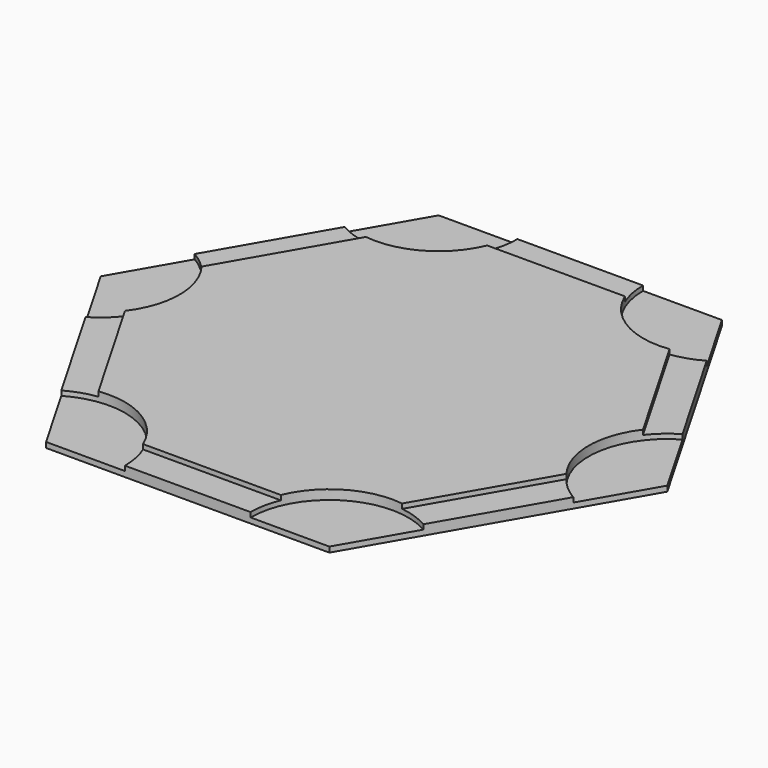
from build123d import *

# Parameters (mm, degrees)
F1_DEPTH = 1.6256
F3_DEPTH = 2.3876
F5_R     = 12.7
F6_DEPTH = 1.524


with BuildPart() as f1:
    # F0 (on Top) → F1 (new body)
    with BuildSketch(Plane.XY):
        Polygon((-22.8219, -39.52869), (22.8219, -39.52869), (45.6438, 0), (22.8219, 39.52869), (-22.8219, 39.52869), (-45.6438, 0), align=None)
    extrude(amount=F1_DEPTH)

    # F2 (on Top) → F3 (join)
    with BuildSketch(Plane.XY):
        Polygon((-20.006278, -34.65189), (20.006278, -34.65189), (40.012556, 0), (20.006278, 34.65189), (-20.006278, 34.65189), (-40.012556, 0), align=None)
    extrude(amount=F3_DEPTH)

    # F5 (on face) → F6 (cut)
    with BuildSketch(Plane.XY.offset(2.3876)):
        with Locations((22.8219, -39.52869)):
            Circle(F5_R)
        with Locations((45.6438, 0)):
            Circle(F5_R)
        with Locations((22.8219, 39.52869)):
            Circle(F5_R)
        with Locations((-22.8219, 39.52869)):
            Circle(F5_R)
        with Locations((-45.6438, 0)):
            Circle(F5_R)
        with Locations((-22.8219, -39.52869)):
            Circle(F5_R)
    extrude(amount=-F6_DEPTH, mode=Mode.SUBTRACT)


solid = f1.part
